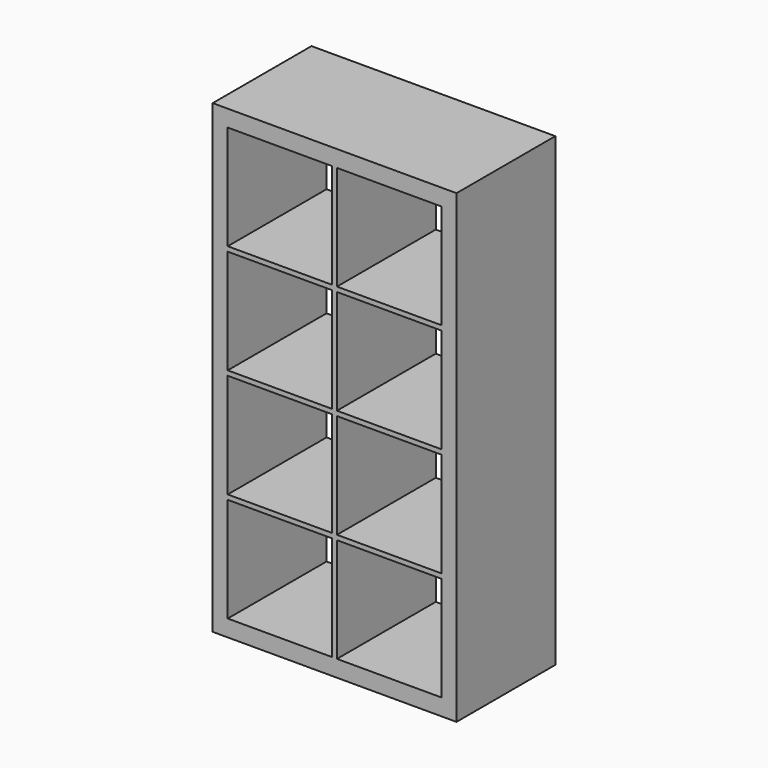
from build123d import *

# Parameters (mm, degrees)
F0_W     = 770
F0_H     = 1470
F1_DEPTH = 390
F2_W     = 330
F2_H     = 330
F3_DEPTH = 390


with BuildPart() as f1:
    # F0 (on Front) → F1 (new body)
    with BuildSketch(Plane.XZ):
        with Locations((385, 735)):
            Rectangle(F0_W, F0_H)
    extrude(amount=-F1_DEPTH)

    # F2 (on face) → F3 (cut, through all)
    with BuildSketch(Plane.XZ):
        with Locations((212.5, 562.5)):
            Rectangle(F2_W, F2_H)
        with Locations((557.5, 562.5)):
            Rectangle(F2_W, F2_H)
        with Locations((557.5, 907.5)):
            Rectangle(F2_W, F2_H)
        with Locations((212.5, 907.5)):
            Rectangle(F2_W, F2_H)
        with Locations((212.5, 1252.5)):
            Rectangle(F2_W, F2_H)
        with Locations((557.5, 1252.5)):
            Rectangle(F2_W, F2_H)
        with Locations((212.5, 217.5)):
            Rectangle(F2_W, F2_H)
        with Locations((557.5, 217.5)):
            Rectangle(F2_W, F2_H)
    extrude(amount=-F3_DEPTH, mode=Mode.SUBTRACT)


solid = f1.part
